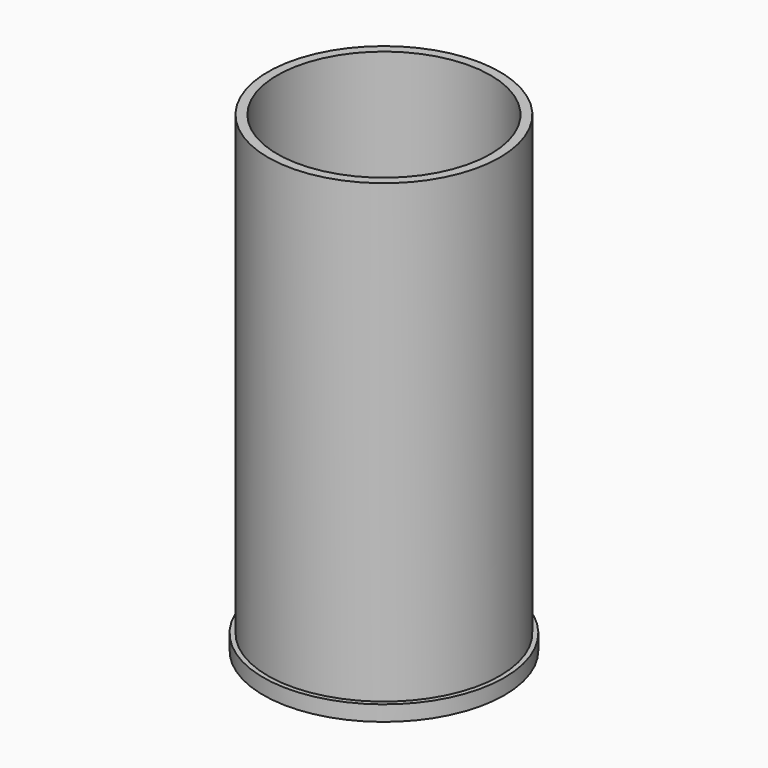
from build123d import *

# Parameters (mm, degrees)
F0_R     = 37.5
F1_DEPTH = 152.6
F2_T     = -3
F4_R     = 39
F4_R_2   = 37.5
F5_DEPTH = 5


with BuildPart() as f1:
    # F0 (on Top) → F1 (new body)
    with BuildSketch(Plane.XY):
        Circle(F0_R)
    extrude(amount=F1_DEPTH)

    # F2
    f2_openings = [f1.faces().sort_by_distance(p)[0] for p in [
        (0, 0, 152.6),
        (0, 0, 0),
    ]]
    offset(amount=F2_T, openings=f2_openings)

    # F4 (on Top) → F5 (join)
    with BuildSketch(Plane.XY):
        Circle(F4_R)
        Circle(F4_R_2, mode=Mode.SUBTRACT)
    extrude(amount=F5_DEPTH)


solid = f1.part
